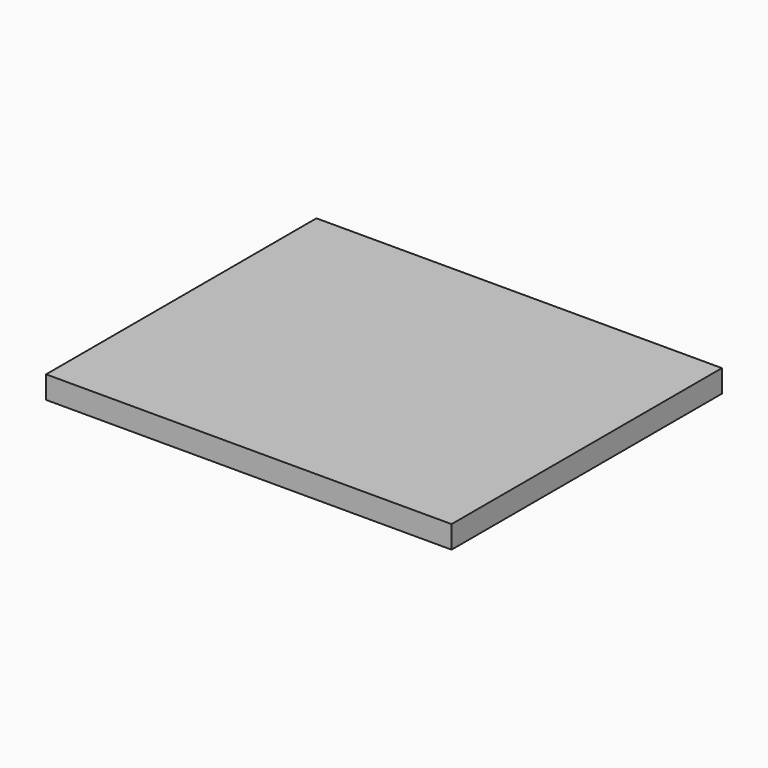
from build123d import *

# Parameters (mm, degrees)
BOX_W     = 180
BOX_H     = 150
BOX_DEPTH = 10


with BuildPart() as part:
    # Box → Box (new body)
    with BuildSketch(Plane.XY):
        with Locations((90, 75)):
            Rectangle(BOX_W, BOX_H)
    extrude(amount=BOX_DEPTH)


solid = part.part
